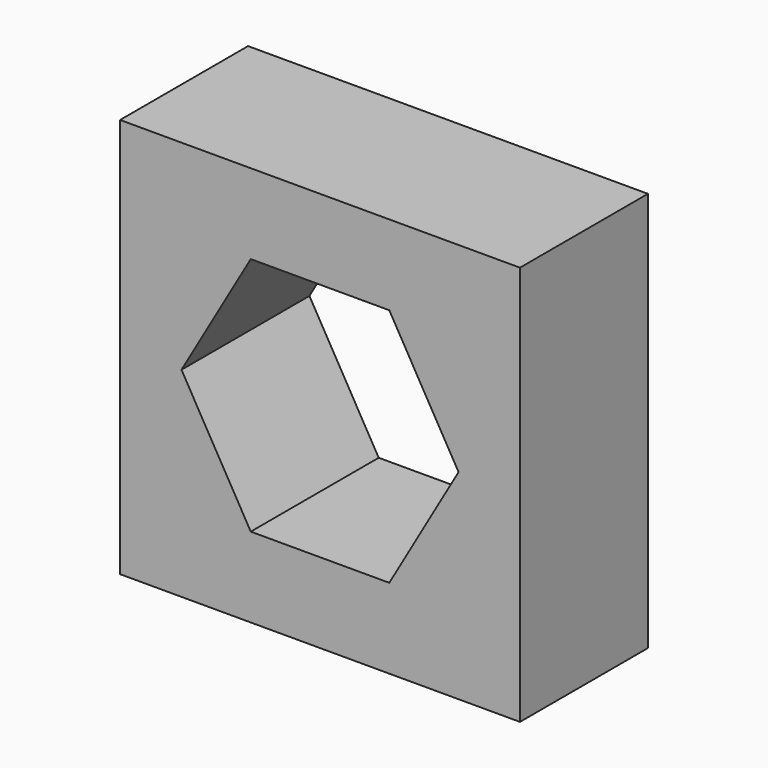
from build123d import *

# Parameters (mm, degrees)
F0_W     = 15.875
F0_H     = 15.875
F1_DEPTH = 6.35


with BuildPart() as f1:
    # F0 (on Front) → F1 (new body)
    with BuildSketch(Plane.XZ):
        Rectangle(F0_W, F0_H)
        Polygon((-5.499261, 0), (-2.749631, 4.7625), (2.749631, 4.7625), (5.499261, 0), (2.749631, -4.7625), (-2.749631, -4.7625), align=None, mode=Mode.SUBTRACT)
    extrude(amount=F1_DEPTH)


solid = f1.part
